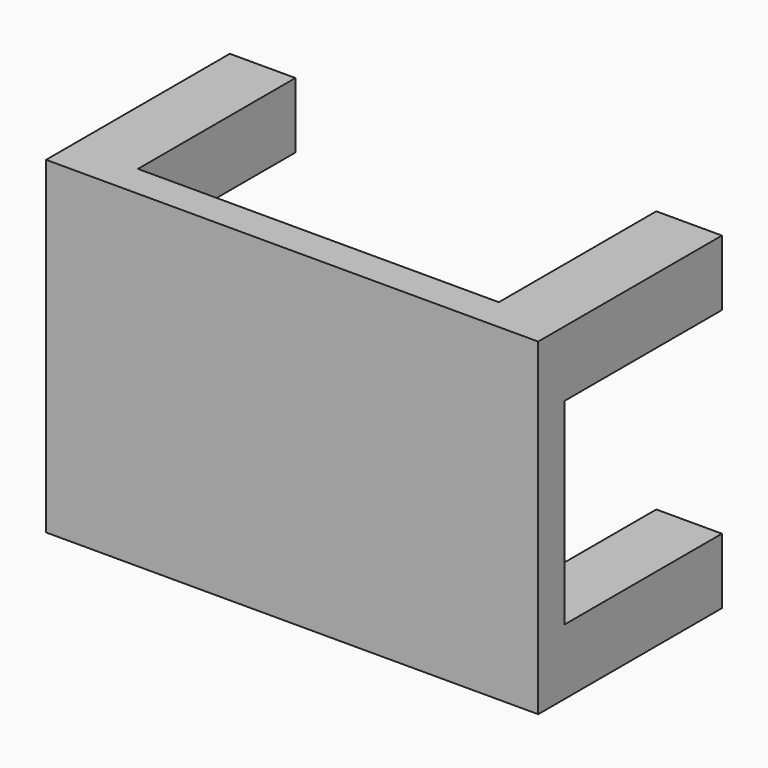
from build123d import *

# Parameters (mm, degrees)
F0_W     = 38.1
F0_H     = 25.4
F1_DEPTH = 2.54
F2_W     = 5.08
F2_H     = 5.08
F3_DEPTH = 15.24


with BuildPart() as f1:
    # F0 (on Front) → F1 (new body)
    with BuildSketch(Plane.XZ):
        with Locations((19.05, -12.7)):
            Rectangle(F0_W, F0_H)
    extrude(amount=F1_DEPTH)

    # F2 (on face) → F3 (join)
    with BuildSketch(Plane(origin=(0, 0, 0), x_dir=(-1, 0, 0), z_dir=(0, 1, 0))):
        with Locations((-35.56, -2.54)):
            Rectangle(F2_W, F2_H)
        with Locations((-35.56, -22.86)):
            Rectangle(F2_W, F2_H)
        with Locations((-2.54, -2.54)):
            Rectangle(F2_W, F2_H)
        with Locations((-2.54, -22.86)):
            Rectangle(F2_W, F2_H)
    extrude(amount=F3_DEPTH)


solid = f1.part
